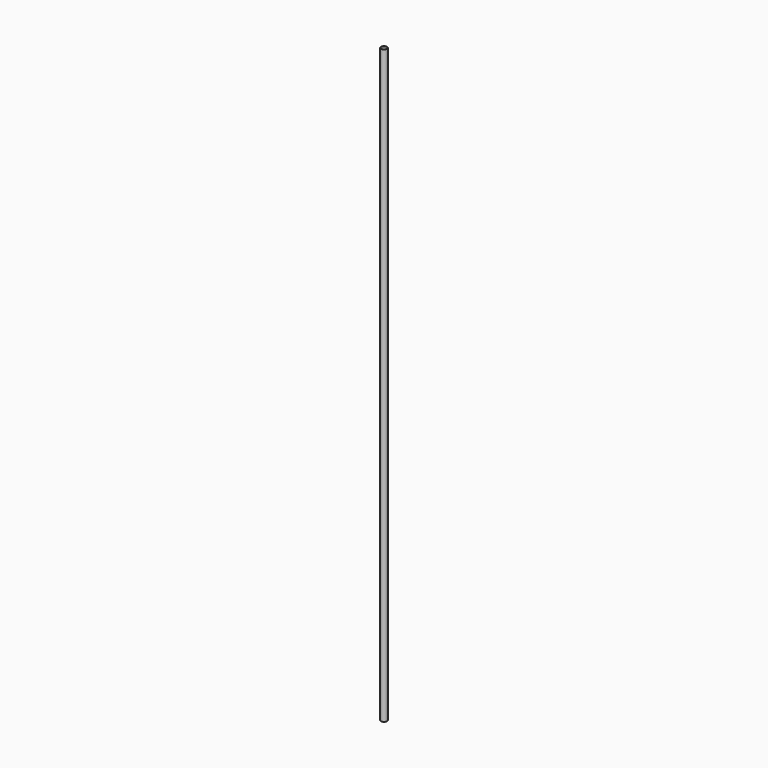
from build123d import *

# Parameters (mm, degrees)
F0_R     = 10
F2_DEPTH = 1000
F1_R     = 9
F3_DEPTH = 1000.001
F4_DEPTH = 1000.001


with BuildPart() as f2:
    # F0 (on Top) → F2 (new body, symmetric)
    with BuildSketch(Plane.XY):
        Circle(F0_R)
    extrude(amount=F2_DEPTH, both=True)

    # F1 (on Top) → F3 (cut, through all)
    with BuildSketch(Plane.XY):
        Circle(F1_R)
    extrude(amount=-F3_DEPTH, mode=Mode.SUBTRACT)

    # F1 (on Top) → F4 (cut, through all)
    with BuildSketch(Plane.XY):
        Circle(F1_R)
    extrude(amount=F4_DEPTH, mode=Mode.SUBTRACT)


solid = f2.part
